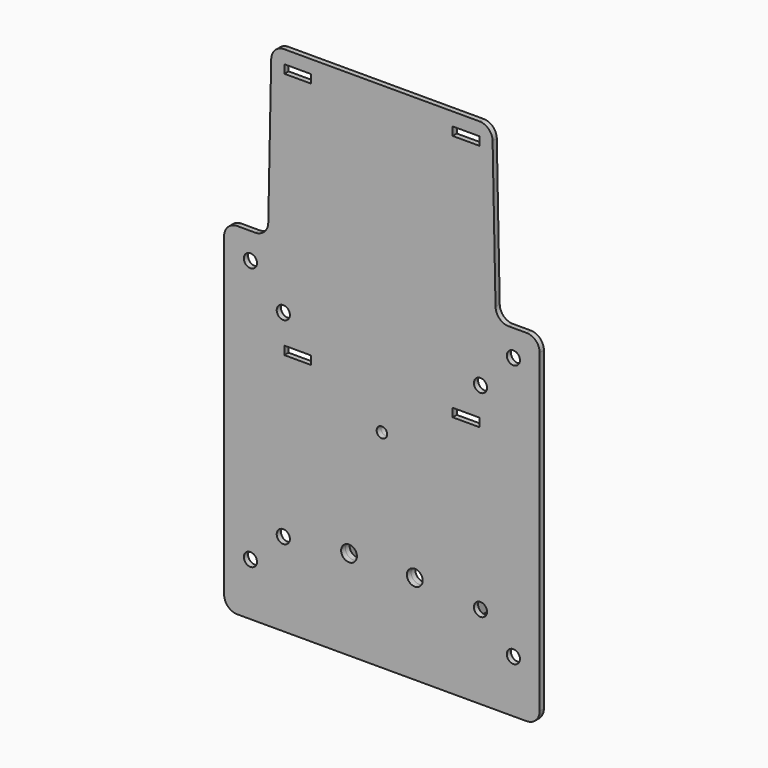
from build123d import *

# Parameters (mm, degrees)
F0_R      = 2.5
F0_W      = 10.2
F0_H      = 3.2
F0_R_2    = 2
F1_DEPTH  = 2
F2_R      = 5
F3_R      = 2
F4_DEPTH  = 3
F7_DEPTH  = 15
F8_R      = 10
F10_D     = 8
F10_DEPTH = 50
F10_TIP   = 2.4034424761
F11_R     = 3
F12_DEPTH = 25


with BuildPart() as f1:
    # F0 (on Front) → F1 (new body)
    with BuildSketch(Plane.XZ):
        Polygon((-60, -69.2189367059), (0, -69.2189367059), (60, -69.2189367059), (60, 60.7810632941), (43.3132653061, 60.7810632941), (42, 125.7810632941), (0, 125.7810632941), (-42, 125.7810632941), (-43.3132653061, 60.7810632941), (-60, 60.7810632941), align=None)
        with Locations((-50, -49.2189367059)):
            Circle(F0_R, mode=Mode.SUBTRACT)
        with Locations((-37.5, -37.5)):
            Circle(F0_R, mode=Mode.SUBTRACT)
        with Locations((-32, 24.9810632941)):
            Rectangle(F0_W, F0_H, mode=Mode.SUBTRACT)
        with Locations((50, -49.2189367059)):
            Circle(F0_R, mode=Mode.SUBTRACT)
        with Locations((37.5, -37.5)):
            Circle(F0_R, mode=Mode.SUBTRACT)
        with Locations((0, 9.5810632941)):
            Circle(F0_R_2, mode=Mode.SUBTRACT)
        with Locations((32, 24.9810632941)):
            Rectangle(F0_W, F0_H, mode=Mode.SUBTRACT)
        with Locations((-50, 50.7810632941)):
            Circle(F0_R, mode=Mode.SUBTRACT)
        with Locations((-37.5, 37.5)):
            Circle(F0_R, mode=Mode.SUBTRACT)
        with Locations((-32, 119.1810632941)):
            Rectangle(F0_W, F0_H, mode=Mode.SUBTRACT)
        with Locations((37.5, 37.5)):
            Circle(F0_R, mode=Mode.SUBTRACT)
        with Locations((50, 50.7810632941)):
            Circle(F0_R, mode=Mode.SUBTRACT)
        with Locations((32, 119.1810632941)):
            Rectangle(F0_W, F0_H, mode=Mode.SUBTRACT)
    extrude(amount=F1_DEPTH)

    # F2
    f2_edges = [f1.edges().sort_by_distance(p)[0] for p in [
        (60, -1, 60.781063),
        (-60, -1, 60.781063),
        (-43.313265, -1, 60.781063),
        (43.313265, -1, 60.781063),
        (42, -1, 125.781063),
        (-42, -1, 125.781063),
        (60, -1, -69.218937),
        (-60, -1, -69.218937),
    ]]
    fillet(f2_edges, radius=F2_R)

    # F3 (on face) → F4 (join)
    with BuildSketch(Plane(origin=(0, 0, 0), x_dir=(-1, 0, 0), z_dir=(0, 1, 0))):
        Polygon((4.0414518843, 9.5810632941), (2.0207259422, 13.0810632941), (-2.0207259422, 13.0810632941), (-4.0414518843, 9.5810632941), (-2.0207259422, 6.0810632941), (2.0207259422, 6.0810632941), align=None)
        with Locations((0, 9.5810632941)):
            Circle(F3_R, mode=Mode.SUBTRACT)
    extrude(amount=F4_DEPTH)


with BuildPart() as f7:
    # F6 (on offset) → F7 (new body, symmetric)
    with BuildSketch(Plane.XY.offset(-35)):
        Polygon((-25.0188405804, 0), (25.0000707743, 0), (25.0000707743, 35), (23.0000707743, 35), (23.0000707743, 2), (-22.9999292257, 2), (-22.9999292257, 34.9999948909), (-24.9999292257, 34.9999948909), align=None)
    extrude(amount=F7_DEPTH, both=True)

    # F8
    f8_edges = [f7.edges().sort_by_distance(p)[0] for p in [
        (24.000071, 35, -20),
        (24.000071, 35, -50),
        (-23.999929, 34.999995, -50),
        (-23.999929, 34.999995, -20),
    ]]
    fillet(f8_edges, radius=F8_R)

    # F10
    with Locations(Plane(origin=(-25.0188332761, 0.0135182885, 0), x_dir=(-0.0005403244, -0.999999854, 0), z_dir=(-0.999999854, 0.0005403244, 0))):
        with Locations((-20.9864817095, -35)):
            Hole(F10_D / 2, depth=F10_DEPTH)
            with Locations((0, 0, -(F10_DEPTH + F10_TIP / 2))):  # 118° drill point
                Cone(0, F10_D / 2, F10_TIP, mode=Mode.SUBTRACT)


with BuildPart() as f12_tool:
    # F11 (on face) → F12 (new body)
    with BuildSketch(Plane(origin=(0, 2, 0), x_dir=(-1, 0, 0), z_dir=(0, 1, 0))):
        with Locations((-12.5, -35)):
            Circle(F11_R)
        with Locations((12.5, -35)):
            Circle(F11_R)
    extrude(amount=-F12_DEPTH)


with BuildPart() as f1_1:
    add(f1.part)

    # F12: cut by f12_tool
    add(f12_tool.part, mode=Mode.SUBTRACT)


with BuildPart() as f7_1:
    add(f7.part)

    # F12: cut by f12_tool
    add(f12_tool.part, mode=Mode.SUBTRACT)


solid = Compound([f1_1.part, f7_1.part])
